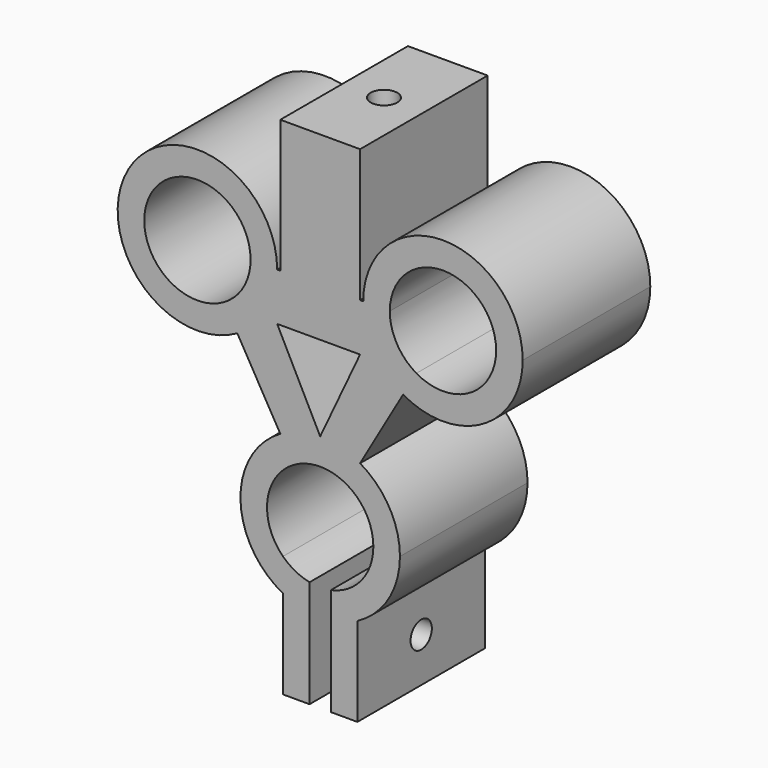
from build123d import *

# Parameters (mm, degrees)
F0_W     = 15
F0_H     = 25
F1_DEPTH = 30
F3_D     = 5
F3_DEPTH = 12
F3_TIP   = 1.5021515476
F4_R     = 2.5
F5_DEPTH = 25
F7_DEPTH = 40


with BuildPart() as f1:
    # F0 (on Front) → F1 (new body)
    with BuildSketch(Plane.XZ):
        with BuildLine():
            Line((18.0940107676, 31.3397459622), (15.5940107676, 27.0096189432))
            ThreePointArc((15.5940107676, 27.0096189432), (30.5940107676, 27.0096189432), (38.0940107676, 40))
            ThreePointArc((38.0940107676, 40), (23.0940107676, 55), (8.0940107676, 40))
            Line((8.0940107676, 40), (13.0940107676, 40))
            ThreePointArc((13.0940107676, 40), (23.0940107676, 50), (33.0940107676, 40))
            ThreePointArc((33.0940107676, 40), (28.0940107676, 31.3397459622), (18.0940107676, 31.3397459622))
        make_face()
        with BuildLine():
            ThreePointArc((-8.0940107676, 40), (-36.0843918244, 47.5), (-15.5940107676, 27.0096189432))
            Line((-15.5940107676, 27.0096189432), (-18.0940107676, 31.3397459622))
            ThreePointArc((-18.0940107676, 31.3397459622), (-31.7542648054, 45), (-13.0940107676, 40))
            Line((-13.0940107676, 40), (-8.0940107676, 40))
        make_face()
        with BuildLine():
            ThreePointArc((-2, -14.8660687473), (-4.5705202893, -14.2867191575), (-7, -13.2664991614))
            Line((-7, -13.2664991614), (-7, -30))
            Line((-7, -30), (-2, -30))
            Line((-2, -30), (-2, -14.8660687473))
        make_face()
        with BuildLine():
            Line((7, -30), (7, -13.2664991614))
            ThreePointArc((7, -13.2664991614), (4.5705202893, -14.2867191575), (2, -14.8660687473))
            Line((2, -14.8660687473), (2, -30))
            Line((2, -30), (7, -30))
        make_face()
        with BuildLine():
            ThreePointArc((-7, -7.1414284285), (-9.9208513844, 1.2556702624), (-5, 8.6602540378))
            Line((-5, 8.6602540378), (-7.5, 12.9903810568))
            ThreePointArc((-7.5, 12.9903810568), (-14.9972810769, -0.2855876432), (-7, -13.2664991614))
            Line((-7, -13.2664991614), (-7, -7.1414284285))
        make_face()
        with BuildLine():
            ThreePointArc((5, 8.6602540378), (8.6602540378, 5), (10, 0))
            ThreePointArc((10, 0), (9.2195444573, -3.8729833462), (7, -7.1414284285))
            Line((7, -7.1414284285), (7, -13.2664991614))
            ThreePointArc((7, -13.2664991614), (12.8452325787, -7.7459666924), (15, 0))
            ThreePointArc((15, 0), (12.9903810568, 7.5), (7.5, 12.9903810568))
            Line((7.5, 12.9903810568), (5, 8.6602540378))
        make_face()
        with BuildLine():
            ThreePointArc((8.0940107676, 40), (10.1036297108, 32.5), (15.5940107676, 27.0096189432))
            Line((15.5940107676, 27.0096189432), (18.0940107676, 31.3397459622))
            ThreePointArc((18.0940107676, 31.3397459622), (14.4337567297, 35), (13.0940107676, 40))
            Line((13.0940107676, 40), (8.0940107676, 40))
        make_face()
        with BuildLine():
            Line((-18.0940107676, 31.3397459622), (-15.5940107676, 27.0096189432))
            ThreePointArc((-15.5940107676, 27.0096189432), (-10.1036297108, 32.5), (-8.0940107676, 40))
            Line((-8.0940107676, 40), (-13.0940107676, 40))
            ThreePointArc((-13.0940107676, 40), (-14.4337567297, 35), (-18.0940107676, 31.3397459622))
        make_face()
        with BuildLine():
            Line((-15.5940107676, 27.0096189432), (-7.5, 12.9903810568))
            ThreePointArc((-7.5, 12.9903810568), (-3.8822856765, 14.4888873943), (0, 15))
            Line((0, 15), (-7.5, 15))
            Line((-7.5, 15), (-7.5, 40))
            Line((-7.5, 40), (-8.0940107676, 40))
            ThreePointArc((-8.0940107676, 40), (-10.1036297108, 32.5), (-15.5940107676, 27.0096189432))
        make_face()
        with BuildLine():
            ThreePointArc((-5, 8.6602540378), (0, 10), (5, 8.6602540378))
            Line((5, 8.6602540378), (7.5, 12.9903810568))
            ThreePointArc((7.5, 12.9903810568), (3.8822856765, 14.4888873943), (0, 15))
            ThreePointArc((0, 15), (-3.8822856765, 14.4888873943), (-7.5, 12.9903810568))
            Line((-7.5, 12.9903810568), (-5, 8.6602540378))
        make_face()
        with BuildLine():
            ThreePointArc((-2, -9.7979589711), (-4.6919386858, -8.8309518948), (-7, -7.1414284285))
            Line((-7, -7.1414284285), (-7, -13.2664991614))
            ThreePointArc((-7, -13.2664991614), (-4.5705202893, -14.2867191575), (-2, -14.8660687473))
            Line((-2, -14.8660687473), (-2, -9.7979589711))
        make_face()
        with BuildLine():
            Line((7, -13.2664991614), (7, -7.1414284285))
            ThreePointArc((7, -7.1414284285), (4.6919386858, -8.8309518948), (2, -9.7979589711))
            Line((2, -9.7979589711), (2, -14.8660687473))
            ThreePointArc((2, -14.8660687473), (4.5705202893, -14.2867191575), (7, -13.2664991614))
        make_face()
        Polygon((-7.5, 15), (0, 15), (7.5, 15), (7.5, 40), (-7.5, 40), align=None)
        with Locations((0, 52.5)):
            Rectangle(F0_W, F0_H)
        with BuildLine():
            ThreePointArc((0, 15), (3.8822856765, 14.4888873943), (7.5, 12.9903810568))
            Line((7.5, 12.9903810568), (15.5940107676, 27.0096189432))
            ThreePointArc((15.5940107676, 27.0096189432), (10.1036297108, 32.5), (8.0940107676, 40))
            Line((8.0940107676, 40), (7.5, 40))
            Line((7.5, 40), (7.5, 15))
            Line((7.5, 15), (0, 15))
        make_face()
    extrude(amount=F1_DEPTH)

    # F3
    with Locations(Plane.XY.offset(65)):
        with Locations((0, -15)):
            Hole(F3_D / 2, depth=F3_DEPTH)
            with Locations((0, 0, -(F3_DEPTH + F3_TIP / 2))):  # 118° drill point
                Cone(0, F3_D / 2, F3_TIP, mode=Mode.SUBTRACT)

    # F4 (on face) → F5 (cut)
    with BuildSketch(Plane.YZ.offset(7)):
        with Locations((-15, -21.6332495807)):
            Circle(F4_R)
    extrude(amount=-F5_DEPTH, mode=Mode.SUBTRACT)

    # F6 (on face) → F7 (cut)
    with BuildSketch(Plane(origin=(0, 0, 0), x_dir=(-1, 0, 0), z_dir=(0, 1, 0))):
        Polygon((-7.5, 31), (0, 15), (8.0940107676, 31), align=None)
    extrude(amount=-F7_DEPTH, mode=Mode.SUBTRACT)


solid = f1.part
